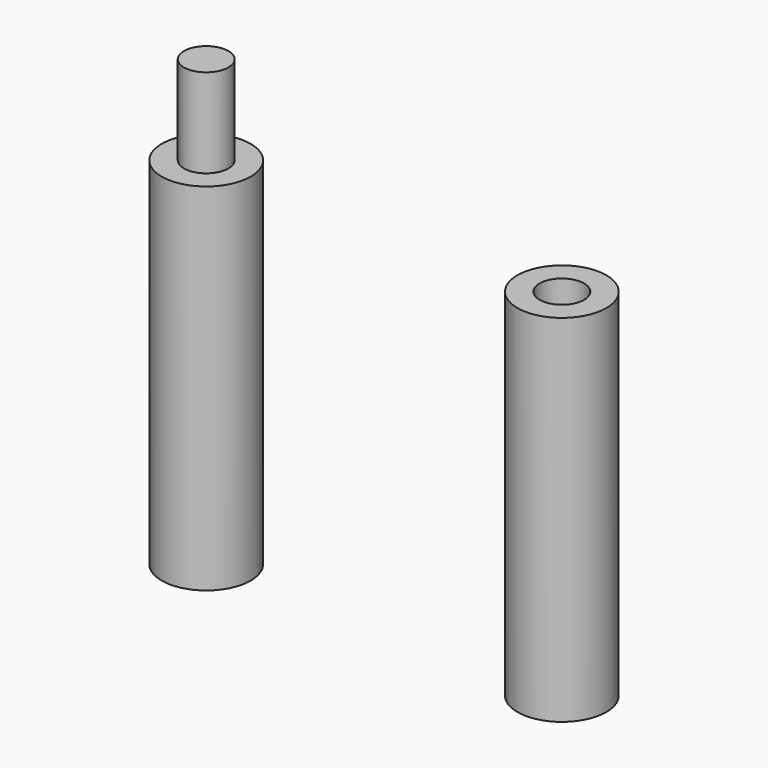
from build123d import *

# Parameters (mm, degrees)
F0_R     = 3.175
F1_DEPTH = 25.4
F3_R     = 1.5875
F4_DEPTH = 6.35
F5_R     = 1.5875
F6_DEPTH = 6.35


with BuildPart() as f1:
    # F0 (on Top) → F1 (new body)
    with BuildSketch(Plane.XY):
        with Locations((-9.922628291, -18.2920936495)):
            Circle(F0_R)
    extrude(amount=F1_DEPTH)


with BuildPart() as f2_1:
    # F2: copy of F1
    add(f1.part.moved(Location((25.4, 0, 0))))

    # F5 (on face) → F6 (cut)
    with BuildSketch(Plane.XY.offset(25.4)):
        with Locations((15.477371709, -18.2920936495)):
            Circle(F5_R)
    extrude(amount=-F6_DEPTH, mode=Mode.SUBTRACT)


with BuildPart() as f1_1:
    add(f1.part)

    # F3 (on face) → F4 (join)
    with BuildSketch(Plane.XY.offset(25.4)):
        with Locations((-9.922628291, -18.2920936495)):
            Circle(F3_R)
    extrude(amount=F4_DEPTH)


solid = Compound([f2_1.part, f1_1.part])
